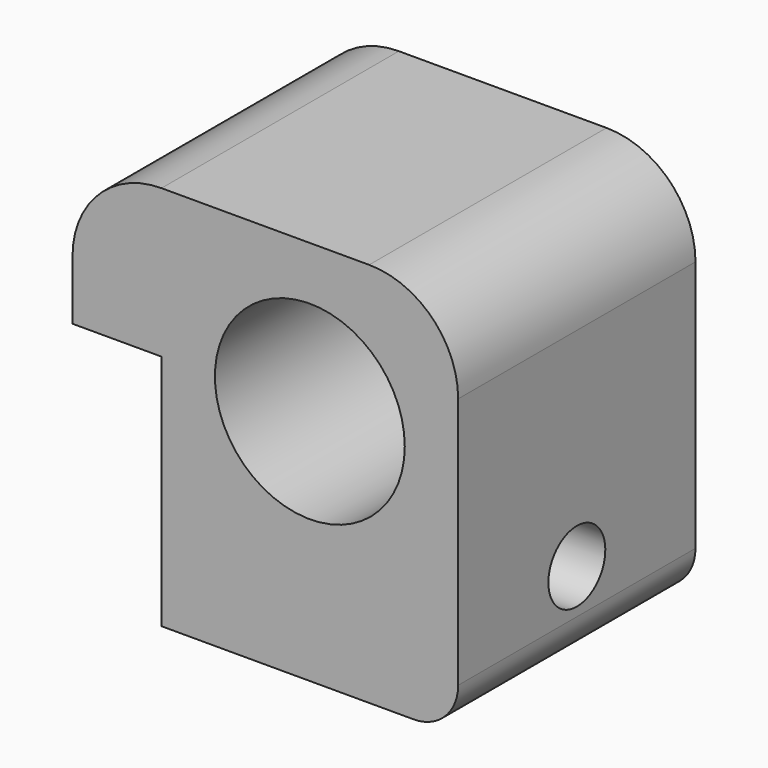
from build123d import *

# Parameters (mm, degrees)
CYLINDER044_R           = 3.2
CYLINDER044_DEPTH       = 156
CYLINDER044_ROLL_ANGLE  = 90
CYLINDER042_R           = 1.2
CYLINDER042_DEPTH       = 10
CYLINDER042_PITCH_ANGLE = 90
BOX028_W                = 3
BOX028_H                = 10
BOX028_DEPTH            = 8
BOX027_W                = 13
BOX027_H                = 10
BOX027_DEPTH            = 13
FILLET_R                = 3
FILLET001_R             = 1.5


with BuildPart() as cylinder044:
    # Cylinder044 → Cylinder044 (new body)
    with BuildSketch(Plane.XY):
        Circle(CYLINDER044_R)
    extrude(amount=CYLINDER044_DEPTH)


with BuildPart() as cylinder044_1:
    # Cylinder044 roll: moved
    add(cylinder044.part.rotate(Axis((0, 0, 0), (1, 0, 0)), CYLINDER044_ROLL_ANGLE))


with BuildPart() as cylinder044_2:
    # Cylinder044 placement: moved
    add(cylinder044_1.part.moved(Location((504, 118, 100))))


with BuildPart() as cylinder042:
    # Cylinder042 → Cylinder042 (new body)
    with BuildSketch(Plane.XY):
        Circle(CYLINDER042_R)
    extrude(amount=CYLINDER042_DEPTH)


with BuildPart() as cylinder042_1:
    # Cylinder042 pitch: moved
    add(cylinder042.part.rotate(Axis((0, 0, 0), (0, 1, 0)), CYLINDER042_PITCH_ANGLE))


with BuildPart() as cylinder042_2:
    # Cylinder042 placement: moved
    add(cylinder042_1.part.moved(Location((499, -33, 95))))


with BuildPart() as box028:
    # Box028 → Box028 (new body)
    with BuildSketch(Plane(origin=(499, -38, 92), x_dir=(1, 0, 0), z_dir=(0, 0, 1))):
        with Locations((1.5, 5)):
            Rectangle(BOX028_W, BOX028_H)
    extrude(amount=BOX028_DEPTH)


with BuildPart() as cut018:
    # Box027 → Box027 (new body)
    with BuildSketch(Plane(origin=(499, -38, 92), x_dir=(1, 0, 0), z_dir=(0, 0, 1))):
        with Locations((6.5, 5)):
            Rectangle(BOX027_W, BOX027_H)
    extrude(amount=BOX027_DEPTH)

    # Fillet
    fillet_edges = [cut018.edges().sort_by_distance(p)[0] for p in [
        (499, -33, 105),
        (512, -33, 105),
    ]]
    fillet(fillet_edges, radius=FILLET_R)

    # Fillet001
    fillet001_edges = [cut018.edges().sort_by_distance(p)[0] for p in [
        (512, -33, 92),
    ]]
    fillet(fillet001_edges, radius=FILLET001_R)

    # Cut016: cut Box028
    add(box028.part, mode=Mode.SUBTRACT)


with BuildPart() as cut018_1:
    # Cut016 placement: moved
    add(cut018.part.moved(Location((-3, 0, 0))))

    # Cut017: cut Cylinder042
    add(cylinder042_2.part, mode=Mode.SUBTRACT)

    # Cut018: cut Cylinder044
    add(cylinder044_2.part, mode=Mode.SUBTRACT)


solid = cut018_1.part
